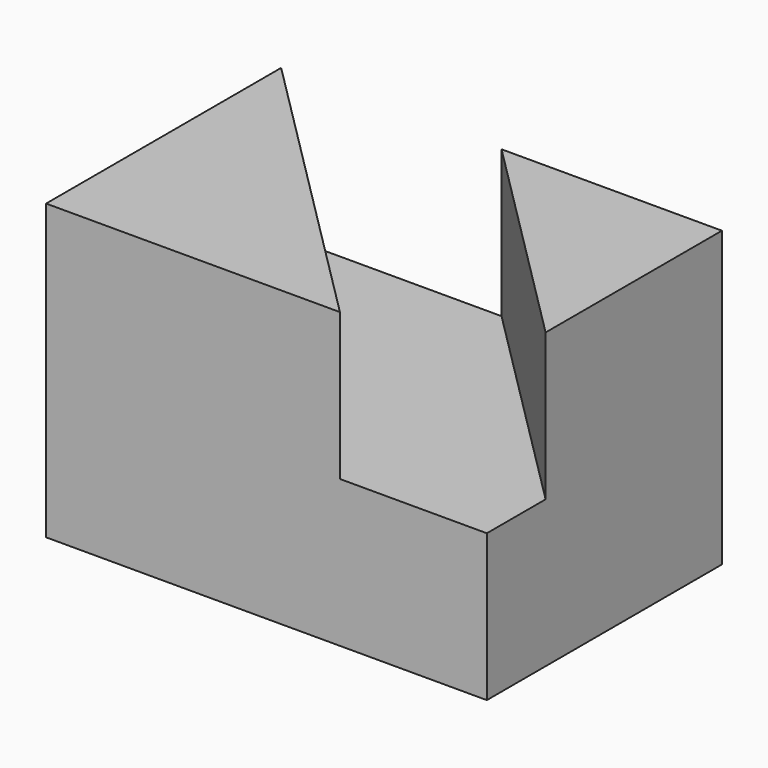
from build123d import *

# Parameters (mm, degrees)
F0_W     = 12.7
F0_H     = 12.7
F2_DEPTH = 25.4
F3_DEPTH = 12.7


with BuildPart() as f2:
    # F0 (on Front) → F2 (new body)
    with BuildSketch(Plane.XZ):
        Polygon((0, 0), (0, -25.4), (38.1, -25.4), (38.1, -12.7), (25.4, -12.7), (25.4, 0), align=None)
        with Locations((31.75, -6.35)):
            Rectangle(F0_W, F0_H)
    extrude(amount=-F2_DEPTH)

    # F1 (on Top) → F3 (cut)
    with BuildSketch(Plane.XY):
        Polygon((0, 25.4), (25.4, 0), (38.1, 0), (38.1, 6.35), (19.05, 25.4), align=None)
    extrude(amount=-F3_DEPTH, mode=Mode.SUBTRACT)


solid = f2.part
